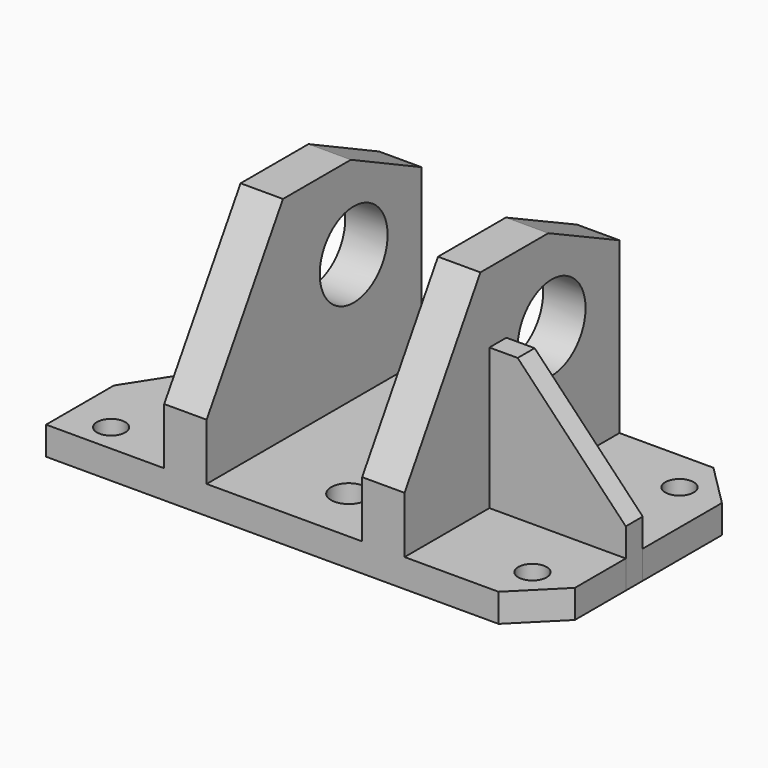
from build123d import *

# Parameters (mm, degrees)
F0_W     = 61.248857
F0_H     = 9.525
F0_W_2   = 19.05
F0_H_2   = 120.65
F0_W_3   = 69.85
F0_R     = 7.9375
F0_R_2   = 6.35
F1_DEPTH = 12.7
F2_DEPTH = 107.95
F3_DEPTH = 76.2
F5_DEPTH = 25.4
F6_R     = 19.05
F7_DEPTH = 76.708
F8_R     = 19.05
F9_DEPTH = 25.4


with BuildPart() as f1:
    # F0 (on Top) → F1 (new body)
    with BuildSketch(Plane.XY):
        with Locations((86.358073, 14.2875)):
            Rectangle(F0_W, F0_H)
        Polygon((55.733645, 19.05), (55.733645, 82.55), (36.683645, 82.55), (36.683645, -38.1), (55.733645, -38.1), (55.733645, 9.525), align=None)
        with Locations((-42.691355, 22.225)):
            Rectangle(F0_W_2, F0_H_2)
        with Locations((1.758645, 22.225)):
            Rectangle(F0_W_3, F0_H_2)
        with Locations((10.368867, -12.7)):
            Circle(F0_R, mode=Mode.SUBTRACT)
        with Locations((10.368867, 63.5)):
            Circle(F0_R, mode=Mode.SUBTRACT)
        Polygon((116.982502, -19.05), (116.982502, 9.525), (55.733645, 9.525), (55.733645, -38.1), (97.932502, -38.1), align=None)
        with Locations((97.932502, -19.05)):
            Circle(F0_R_2, mode=Mode.SUBTRACT)
        Polygon((-52.216355, -38.1), (-52.216355, 82.55), (-105.267498, 0), (-105.267498, -38.1), align=None)
        with Locations((-86.217498, -25.4)):
            Circle(F0_R_2, mode=Mode.SUBTRACT)
        Polygon((116.982502, 63.5), (97.932502, 82.55), (55.733645, 82.55), (55.733645, 19.05), (116.982502, 19.05), align=None)
        with Locations((97.932502, 63.5)):
            Circle(F0_R_2, mode=Mode.SUBTRACT)
    extrude(amount=F1_DEPTH)

    # F0 (on Top) → F2 (join)
    with BuildSketch(Plane.XY):
        with Locations((-42.691355, 22.225)):
            Rectangle(F0_W_2, F0_H_2)
        Polygon((55.733645, 19.05), (55.733645, 82.55), (36.683645, 82.55), (36.683645, -38.1), (55.733645, -38.1), (55.733645, 9.525), align=None)
    extrude(amount=F2_DEPTH)

    # F0 (on Top) → F3 (join)
    with BuildSketch(Plane.XY):
        with Locations((86.358073, 14.2875)):
            Rectangle(F0_W, F0_H)
    extrude(amount=F3_DEPTH)

    # F4 (on face) → F5 (cut)
    with BuildSketch(Plane.XZ.offset(-9.525)):
        Polygon((68.433645, 76.2), (116.982502, 25.4), (116.982502, 76.2), align=None)
    extrude(amount=-F5_DEPTH, mode=Mode.SUBTRACT)

    # F6 (on face) → F7 (cut)
    with BuildSketch(Plane.YZ.offset(-33.166355)):
        with Locations((44.45, 69.85)):
            Circle(F6_R)
        Polygon((-38.1, 38.1), (4.771262, 107.95), (-38.1, 107.95), align=None)
        Polygon((82.55, 107.95), (42.871262, 107.95), (82.55, 88.9), align=None)
    extrude(amount=-F7_DEPTH, mode=Mode.SUBTRACT)

    # F8 (on face) → F9 (cut)
    with BuildSketch(Plane.YZ.offset(55.733645)):
        Polygon((-38.1, 107.95), (-38.1, 38.1), (4.476387, 107.95), align=None)
        Polygon((82.55, 107.95), (42.576387, 107.95), (82.55, 88.9), align=None)
        with Locations((44.45, 69.85)):
            Circle(F8_R)
    extrude(amount=-F9_DEPTH, mode=Mode.SUBTRACT)


solid = f1.part
